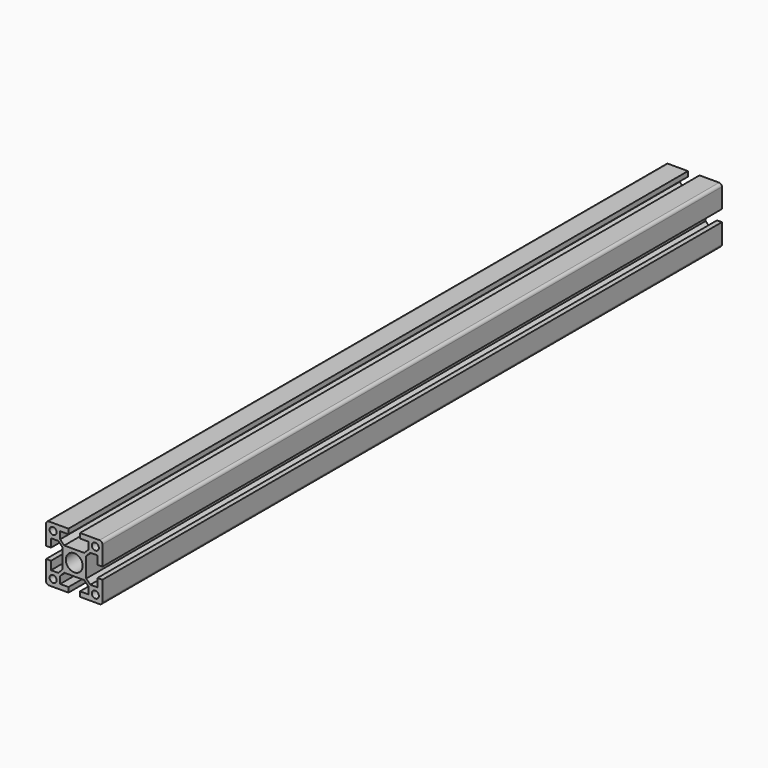
from build123d import *

# Parameters (mm, degrees)
F0_R     = 2.5
F0_R_2   = 6
F1_DEPTH = 550
F2_R     = 2


with BuildPart() as f1:
    # F0 (on Front) → F1 (new body)
    with BuildSketch(Plane.XZ):
        Polygon((4.1, -20), (20, -20), (20, -4.1), (16.5, -4.1), (16.5, -10), (11.4, -10), (8.5, -7.1), (8.5, 0), (8.5, 7.1), (11.4, 10), (16.5, 10), (16.5, 4.1), (20, 4.1), (20, 20), (4.1, 20), (4.1, 16.5), (10, 16.5), (10, 11.4), (7.1, 8.5), (0, 8.5), (-7.1, 8.5), (-10, 11.4), (-10, 16.5), (-4.1, 16.5), (-4.1, 20), (-20, 20), (-20, 4.1), (-16.5, 4.1), (-16.5, 10), (-11.4, 10), (-8.5, 7.1), (-8.5, 0), (-8.5, -7.1), (-11.4, -10), (-16.5, -10), (-16.5, -4.1), (-20, -4.1), (-20, -20), (-4.1, -20), (-4.1, -16.5), (-10, -16.5), (-10, -11.4), (-7.1, -8.5), (0, -8.5), (7.1, -8.5), (10, -11.4), (10, -16.5), (4.1, -16.5), align=None)
        with Locations((-15, -15)):
            Circle(F0_R, mode=Mode.SUBTRACT)
        with Locations((15, -15)):
            Circle(F0_R, mode=Mode.SUBTRACT)
        with Locations((-15, 15)):
            Circle(F0_R, mode=Mode.SUBTRACT)
        Circle(F0_R_2, mode=Mode.SUBTRACT)
        with Locations((15, 15)):
            Circle(F0_R, mode=Mode.SUBTRACT)
    extrude(amount=F1_DEPTH)

    # F2
    f2_edges = [f1.edges().sort_by_distance(p)[0] for p in [
        (20, -275, 20),
        (-20, -275, 20),
        (-20, -275, -20),
        (20, -275, -20),
    ]]
    fillet(f2_edges, radius=F2_R)


solid = f1.part
